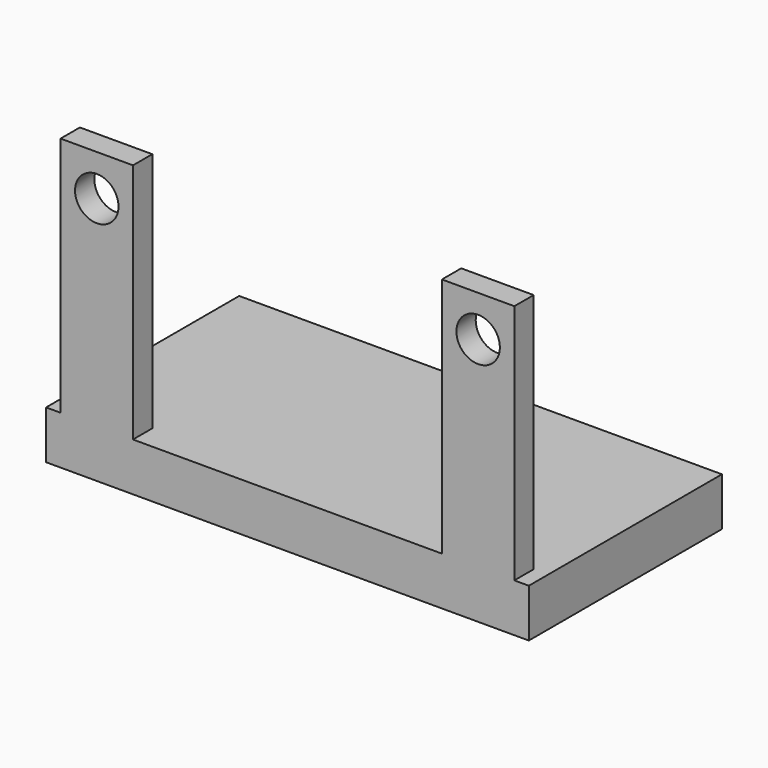
from build123d import *

# Parameters (mm, degrees)
F1_DEPTH = 5.08
F0_W     = 7.62
F0_H     = 2.54
F2_DEPTH = 30.48
F3_R     = 2.286
F3_R_2   = 2.286002
F4_DEPTH = 7.112


with BuildPart() as f1:
    # F0 (on Top) → F1 (new body)
    with BuildSketch(Plane.XY):
        Polygon((25.4, 12.7), (-25.4, 12.7), (-25.4, -12.7), (-23.876, -12.7), (-23.876, -10.16), (-16.256, -10.16), (-16.256, -12.7), (16.256, -12.7), (16.256, -10.16), (23.876, -10.16), (23.876, -12.7), (25.4, -12.7), align=None)
    extrude(amount=F1_DEPTH)

    # F0 (on Top) → F2 (join)
    with BuildSketch(Plane.XY):
        with Locations((-20.066, -11.43)):
            Rectangle(F0_W, F0_H)
        with Locations((20.066, -11.43)):
            Rectangle(F0_W, F0_H)
    extrude(amount=F2_DEPTH)

    # F3 (on face) → F4 (cut)
    with BuildSketch(Plane(origin=(0, -10.16, 0), x_dir=(-1, 0, 0), z_dir=(0, 1, 0))):
        with Locations((-20.066, 26.162)):
            Circle(F3_R)
        with Locations((20.066, 26.162)):
            Circle(F3_R_2)
    extrude(amount=-F4_DEPTH, mode=Mode.SUBTRACT)


solid = f1.part
